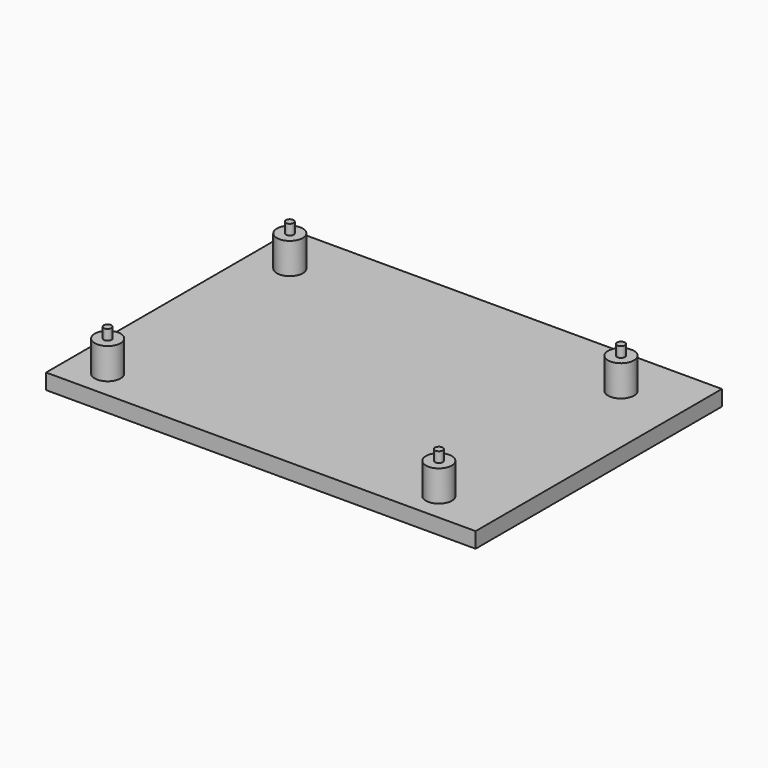
from build123d import *

# Parameters (mm, degrees)
F0_W     = 83
F0_H     = 59.5
F1_DEPTH = 3
F2_R     = 2.5
F3_DEPTH = 6
F4_R     = 0.75
F5_DEPTH = 8


with BuildPart() as f1:
    # F0 (on Top) → F1 (new body)
    with BuildSketch(Plane.XY):
        with Locations((0.53559, 7.022104)):
            Rectangle(F0_W, F0_H)
    extrude(amount=F1_DEPTH)

    # F2 (on face) → F3 (join)
    with BuildSketch(Plane.XY.offset(3)):
        with Locations((-33.46441, 26.772104)):
            Circle(F2_R)
        with Locations((30.53559, 26.772104)):
            Circle(F2_R)
        with Locations((-33.46441, -17.227896)):
            Circle(F2_R)
        with Locations((30.53559, -17.227896)):
            Circle(F2_R)
    extrude(amount=F3_DEPTH)

    # F4 (on face) → F5 (join)
    with BuildSketch(Plane.XY.offset(3)):
        with Locations((-33.46441, 26.772104)):
            Circle(F4_R)
        with Locations((30.53559, 26.772104)):
            Circle(F4_R)
        with Locations((30.53559, -17.227896)):
            Circle(F4_R)
        with Locations((-33.46441, -17.227896)):
            Circle(F4_R)
    extrude(amount=F5_DEPTH)


solid = f1.part
